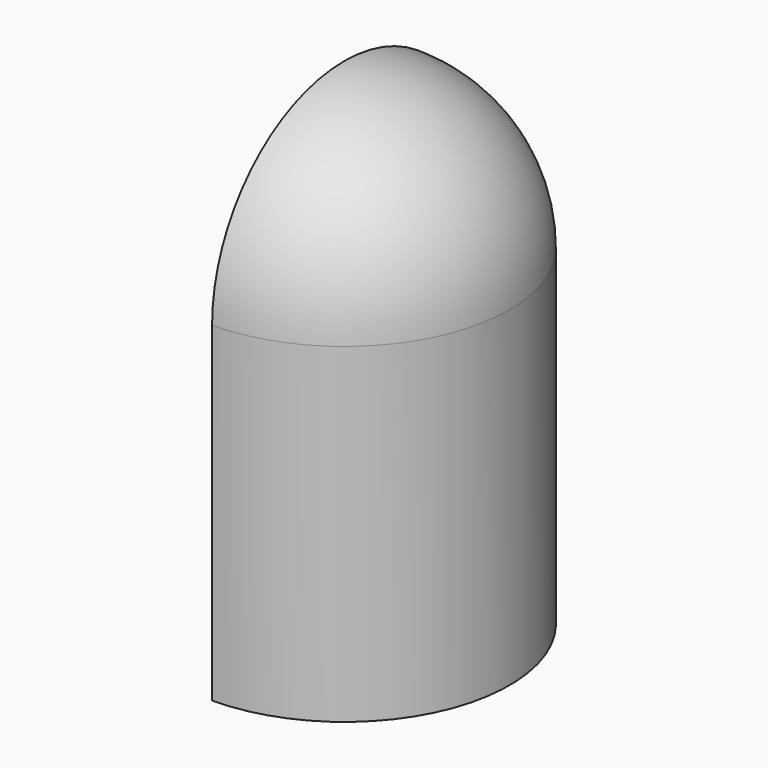
from build123d import *

# Parameters (mm, degrees)
F1_ANGLE_BACK = 90
F1_ANGLE      = 180


with BuildPart() as f1:
    # F0 (on Front) → F1 (revolve)
    with BuildSketch(Plane.XZ, mode=Mode.PRIVATE) as f1_sk:
        with BuildLine():
            Line((0, 2.5), (0, 0))
            Line((0, 0), (20, 0))
            Line((20, 0), (20, 40))
            ThreePointArc((20, 40), (14.1421356237, 54.1421356237), (0, 60))
            Line((0, 60), (0, 57.5))
            ThreePointArc((0, 57.5), (12.3743686708, 52.3743686708), (17.5, 40))
            Line((17.5, 40), (17.5, 2.5))
            Line((17.5, 2.5), (0, 2.5))
        make_face()
    revolve(f1_sk.sketch.rotate(Axis((0, 0, 1.25), (0, 0, -1)), -F1_ANGLE_BACK), axis=Axis((0, 0, 1.25), (0, 0, -1)), revolution_arc=F1_ANGLE)


solid = f1.part
